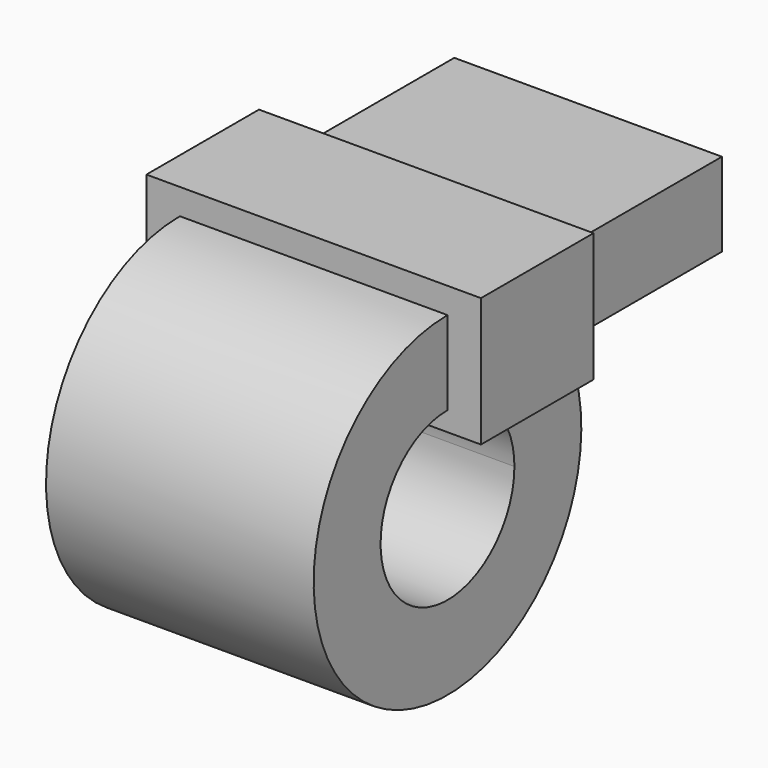
from build123d import *

# Parameters (mm, degrees)
F1_DEPTH = 0.8
F0_W     = 0.8412975585
F0_H     = 0.1542318389
F2_DEPTH = 1


with BuildPart() as f1:
    # F0 (on Right) → F1 (new body, symmetric)
    with BuildSketch(Plane.YZ):
        with BuildLine():
            ThreePointArc((0.3204790504, 0.383787934), (0.4529014933, 0.2118495631), (0.5, 0))
            ThreePointArc((0.5, 0), (-0.3535533906, -0.3535533906), (0, 0.5))
            Line((0, 0.5), (0, 1))
            ThreePointArc((0, 1), (-0.5, -0.8660254038), (0.8660254038, 0.5))
            Line((0.8660254038, 0.5), (2.0505674183, 0.5))
            Line((2.0505674183, 0.5), (2.0505674183, 1))
            Line((2.0505674183, 1), (1.2247448714, 1))
            Line((1.2247448714, 1), (0.8412975585, 1))
            Line((0.8412975585, 1), (0.8412975585, 0.383787934))
            Line((0.8412975585, 0.383787934), (0.3204790504, 0.383787934))
        make_face()
        with BuildLine():
            ThreePointArc((0, 0.5), (0.1704494544, 0.4700499798), (0.3204790504, 0.383787934))
            Line((0.3204790504, 0.383787934), (0.8412975585, 0.383787934))
            Line((0.8412975585, 0.383787934), (0.8412975585, 1))
            Line((0.8412975585, 1), (0, 1))
            Line((0, 1), (0, 0.5))
        make_face()
    extrude(amount=F1_DEPTH, both=True)

    # F0 (on Right) → F2 (join, symmetric)
    with BuildSketch(Plane.YZ):
        with Locations((0.4206487793, 1.0771159194)):
            Rectangle(F0_W, F0_H)
        with BuildLine():
            Line((0, 0.383787934), (0.3204790504, 0.383787934))
            ThreePointArc((0.3204790504, 0.383787934), (0.1704494544, 0.4700499798), (0, 0.5))
            Line((0, 0.5), (0, 0.383787934))
        make_face()
        with BuildLine():
            ThreePointArc((0, 0.5), (0.1704494544, 0.4700499798), (0.3204790504, 0.383787934))
            Line((0.3204790504, 0.383787934), (0.8412975585, 0.383787934))
            Line((0.8412975585, 0.383787934), (0.8412975585, 1))
            Line((0.8412975585, 1), (0, 1))
            Line((0, 1), (0, 0.5))
        make_face()
    extrude(amount=F2_DEPTH, both=True)


solid = f1.part
